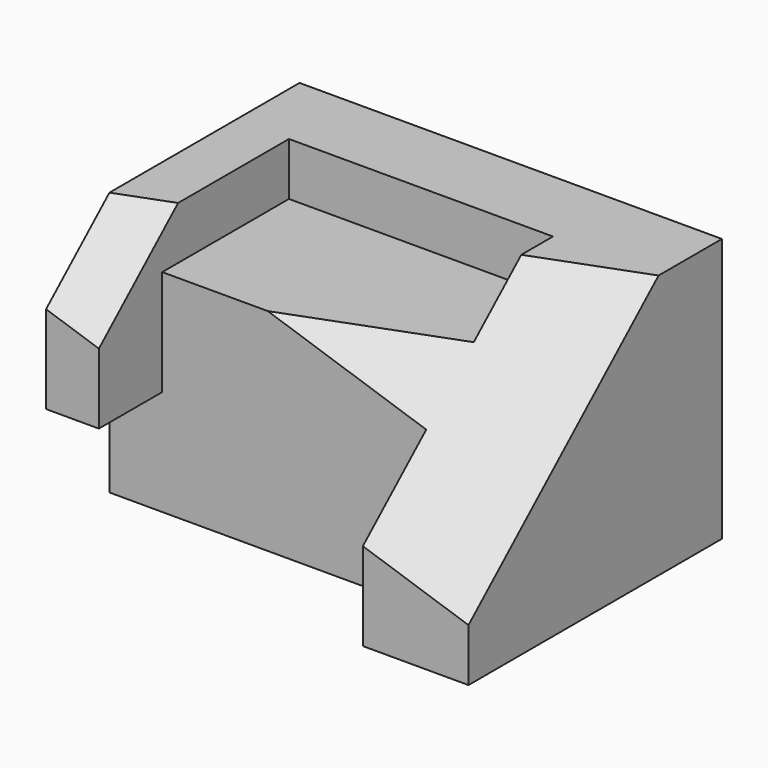
from build123d import *

# Parameters (mm, degrees)
F0_W      = 80
F0_H      = 50
F1_DEPTH  = 30
F2_W      = 50
F2_H      = 45
F3_DEPTH  = 10
F4_W      = 50
F4_H      = 40
F5_DEPTH  = 15
F6_W      = 10
F6_H      = 20
F7_DEPTH  = 15
F11_W     = 98.4419174492
F11_H     = 69.922182709
F12_DEPTH = 30


with BuildPart() as f1:
    # F0 (on Front) → F1 (new body, symmetric)
    with BuildSketch(Plane.XZ):
        Rectangle(F0_W, F0_H)
    extrude(amount=F1_DEPTH, both=True)

    # F2 (on face) → F3 (cut)
    with BuildSketch(Plane.XY.offset(25)):
        with Locations((-5, -7.5)):
            Rectangle(F2_W, F2_H)
    extrude(amount=-F3_DEPTH, mode=Mode.SUBTRACT)

    # F4 (on face) → F5 (cut)
    with BuildSketch(Plane.XZ.offset(30)):
        with Locations((-5, -5)):
            Rectangle(F4_W, F4_H)
    extrude(amount=-F5_DEPTH, mode=Mode.SUBTRACT)

    # F6 (on face) → F7 (cut)
    with BuildSketch(Plane.XZ.offset(30)):
        with Locations((-35, -15)):
            Rectangle(F6_W, F6_H)
    extrude(amount=-F7_DEPTH, mode=Mode.SUBTRACT)

    # F11 (on 3pt) → F12 (cut)
    with BuildSketch(Plane(origin=(4.3831168831, -11.6883116883, 13.1493506494), x_dir=(0.9703393435, 0.1606078913, -0.1806838778), z_dir=(0.2417468892, -0.6446583712, 0.7252406676))):
        with Locations((-5.011850968, -1.6786511987)):
            Rectangle(F11_W, F11_H)
    extrude(amount=F12_DEPTH, mode=Mode.SUBTRACT)


solid = f1.part
